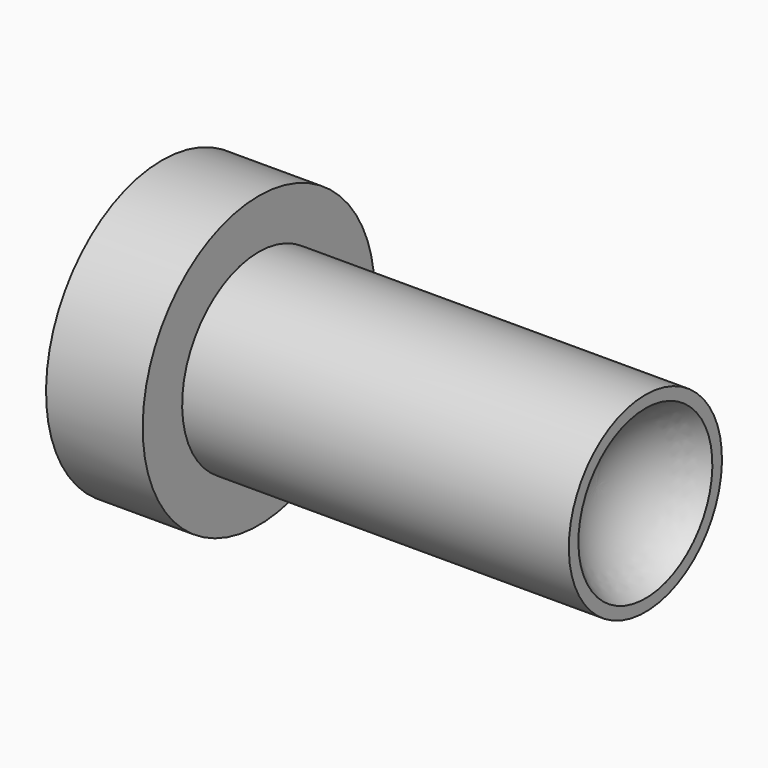
from build123d import *


with BuildPart() as f1:
    # F0 (on Front) → F1 (revolve)
    with BuildSketch(Plane.XZ):
        with BuildLine():
            Line((-12.7, 0), (0, 0))
            Line((0, 0), (44.45, 0))
            ThreePointArc((44.45, 0), (46.151477, 6.35), (50.8, 10.998523))
            Line((50.8, 10.998523), (50.8, 12.573))
            Line((50.8, 12.573), (0, 12.573))
            Line((0, 12.573), (0, 19.05))
            Line((0, 19.05), (-12.7, 19.05))
            Line((-12.7, 19.05), (-12.7, 0))
        make_face()
    revolve(axis=Axis((22.225, 0, 0), (1, 0, 0)))


solid = f1.part
